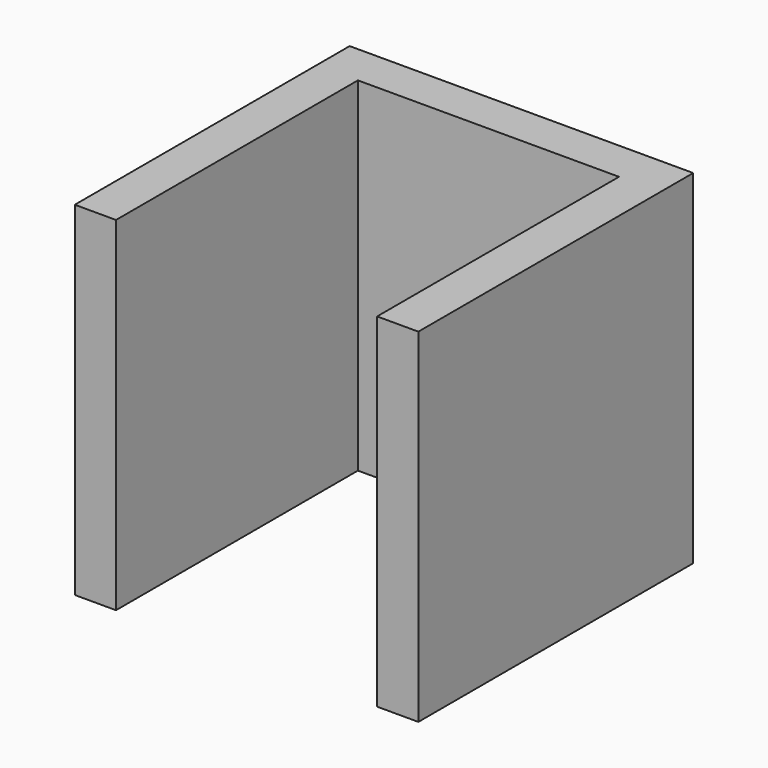
from build123d import *

# Parameters (mm, degrees)
F0_W     = 25
F0_H     = 25
F1_DEPTH = 25
F2_T     = -3
F4_D     = 5
F4_DEPTH = 12
F4_TIP   = 1.5021515476


with BuildPart() as f1:
    # F0 (on Front) → F1 (new body)
    with BuildSketch(Plane.XZ):
        Rectangle(F0_W, F0_H)
    extrude(amount=F1_DEPTH)

    # F2
    f2_openings = [f1.faces().sort_by_distance(p)[0] for p in [
        (0, -25, 0),
        (0, -12.5, -12.5),
        (0, -12.5, 12.5),
    ]]
    offset(amount=F2_T, openings=f2_openings)

    # F4
    with Locations(Plane.XZ.offset(3)):
        with Locations((0, 0)):
            Hole(F4_D / 2, depth=F4_DEPTH)
            with Locations((0, 0, -(F4_DEPTH + F4_TIP / 2))):  # 118° drill point
                Cone(0, F4_D / 2, F4_TIP, mode=Mode.SUBTRACT)


solid = f1.part
